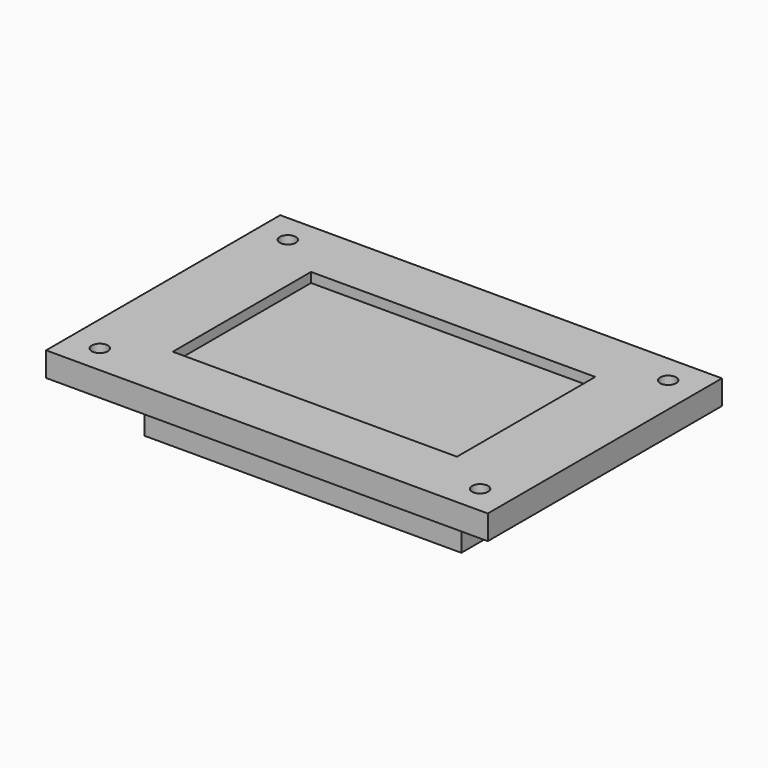
from build123d import *

# Parameters (mm, degrees)
F0_W     = 115
F0_H     = 76.2
F1_DEPTH = 6.35
F2_W     = 82.55
F2_H     = 52.3875
F3_DEPTH = 12.7
F4_W     = 74
F4_H     = 45
F5_DEPTH = 2.54
F7_D     = 4.1656


with BuildPart() as f1:
    # F0 (on Top) → F1 (new body)
    with BuildSketch(Plane.XY):
        with Locations((4.230735, 2.938756)):
            Rectangle(F0_W, F0_H)
    extrude(amount=F1_DEPTH)

    # F2 (on face) → F3 (join)
    with BuildSketch(Plane(origin=(0, 0, 0), x_dir=(1, 0, 0), z_dir=(0, 0, -1))):
        with Locations((4.225135, -2.716506)):
            Rectangle(F2_W, F2_H)
    extrude(amount=F3_DEPTH)

    # F4 (on face) → F5 (cut)
    with BuildSketch(Plane.XY.offset(6.35)):
        with Locations((4.228535, 2.943156)):
            Rectangle(F4_W, F4_H)
    extrude(amount=-F5_DEPTH, mode=Mode.SUBTRACT)

    # F7 (through all)
    with Locations(Plane.XY.offset(6.35)):
        with Locations((-45.269265, 33.538756), (53.730735, 33.538756), (53.730735, -27.668244), (-45.269265, -27.668244)):
            Hole(F7_D / 2)


solid = f1.part
